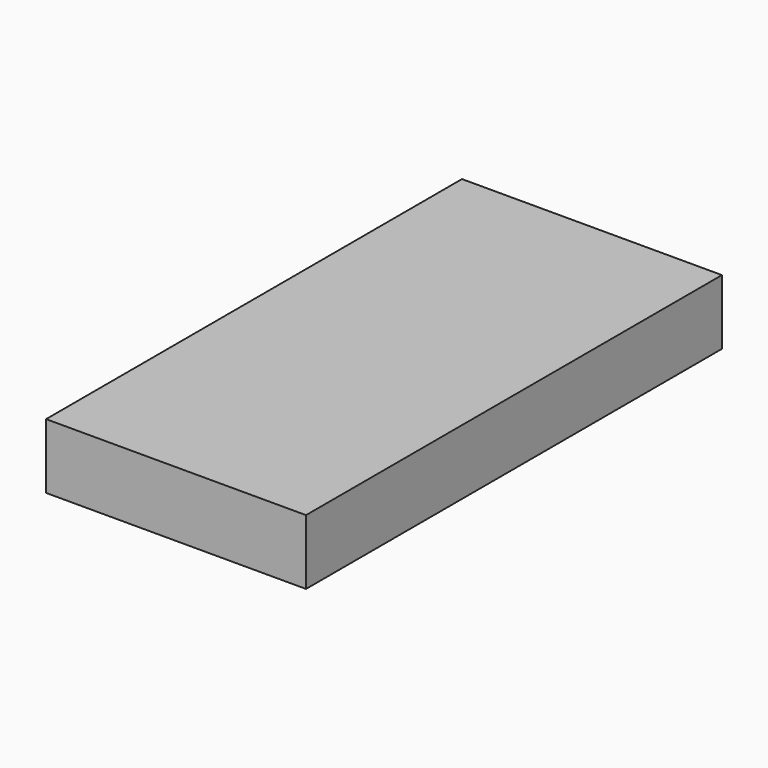
from build123d import *

# Parameters (mm, degrees)
SKETCH_W  = 0.12
SKETCH_H  = 0.24
PAD_DEPTH = 0.015


with BuildPart() as part:
    # Sketch → Pad (new body, symmetric)
    with BuildSketch(Plane.XY):
        Rectangle(SKETCH_W, SKETCH_H)
    extrude(amount=PAD_DEPTH, both=True)


solid = part.part
